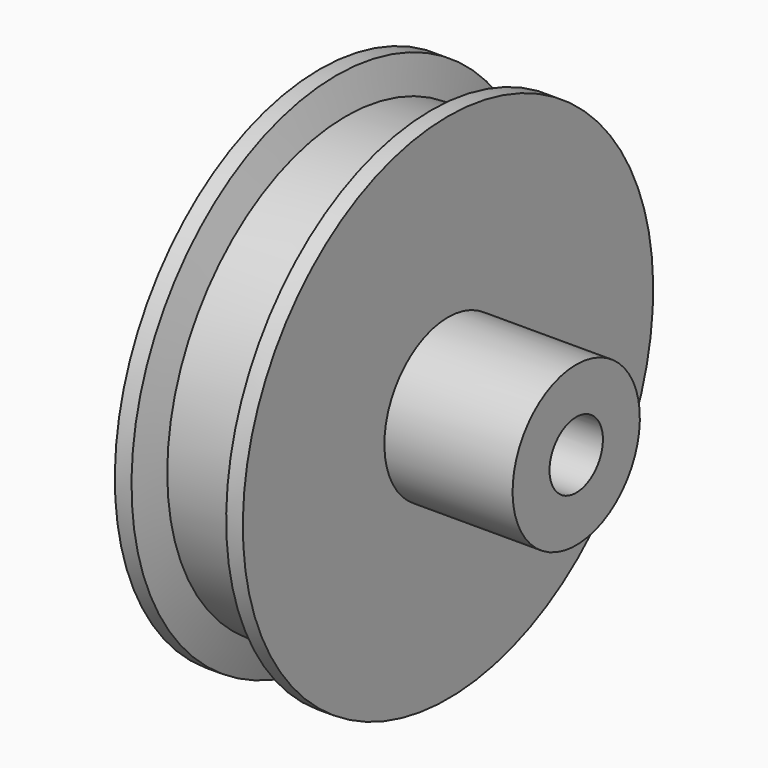
from build123d import *

# Parameters (mm, degrees)
F2_R     = 1.905
F3_DEPTH = 25.4


with BuildPart() as f1:
    # F0 (on Front) → F1 (revolve)
    with BuildSketch(Plane.XZ):
        Polygon((0, 50.761004), (0, 6.612969), (50.8, 6.612969), (50.8, 15.756969), (25.4, 15.756969), (25.4, 50.808969), (22.098, 50.808969), (20.42762, 44.217008), (5.151389, 44.217008), (3.302, 50.761004), align=None)
    revolve(axis=Axis((50.224784, 0, 0), (1, 0, 0)))

    # F2 (on Front) → F3 (cut)
    with BuildSketch(Plane.XZ):
        with Locations((41.148, 0)):
            Circle(F2_R)
    extrude(amount=-F3_DEPTH, mode=Mode.SUBTRACT)


solid = f1.part
